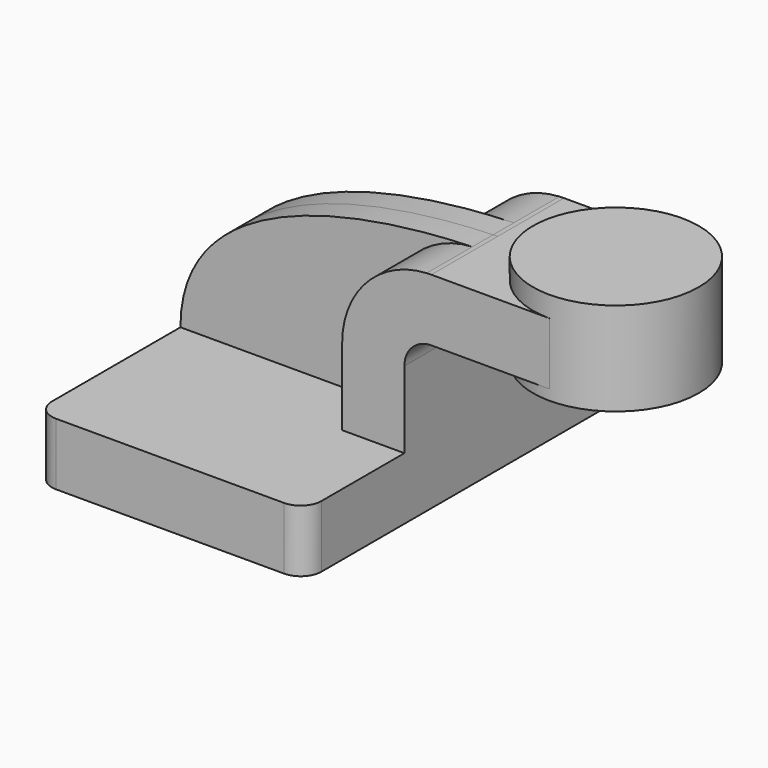
from build123d import *

# Parameters (mm, degrees)
F1_DEPTH = 63.5
F0_W     = 25.4
F0_H     = 19.05
F2_DEPTH = 25.4
F3_DEPTH = 7.9375
F4_R     = 6.35


with BuildPart() as f1:
    # F0 (on Front) → F1 (new body, symmetric)
    with BuildSketch(Plane.XZ):
        Polygon((41.275, -9.525), (41.275, 9.525), (22.225, 9.525), (-41.275, 9.525), (-41.275, -9.525), align=None)
    extrude(amount=F1_DEPTH, both=True)

    # F0 (on Front) → F2 (join, symmetric)
    with BuildSketch(Plane.XZ):
        with BuildLine():
            Line((22.225, 9.525), (41.275, 9.525))
            Line((41.275, 9.525), (41.275, 33.02))
            ThreePointArc((41.275, 33.02), (43.6928335213, 38.8571664787), (49.53, 41.275))
            Line((49.53, 41.275), (60.325, 41.275))
            Line((60.325, 41.275), (60.325, 60.325))
            Line((60.325, 60.325), (49.53, 60.325))
            add(Edge.make_bspline(
                [(48.1194647713, 60.2885425971), (48.5932006273, 60.3022707881), (49.063439273, 60.3144056478), (49.53, 60.325)],
                knots=[102.663192175, 102.663192175, 102.663192175, 102.663192175, 104.0489693606, 104.0489693606, 104.0489693606, 104.0489693606], degree=3))
            ThreePointArc((48.1194647713, 60.2885425971), (29.730029174, 51.8222387042), (22.225, 33.02))
            Line((22.225, 33.02), (22.225, 9.525))
        make_face()
        with Locations((73.025, 50.8)):
            Rectangle(F0_W, F0_H)
    extrude(amount=F2_DEPTH, both=True)

    # F0 (on Front) → F3 (join, symmetric)
    with BuildSketch(Plane.XZ):
        with BuildLine():
            Line((-41.275, 9.525), (22.225, 9.525))
            Line((22.225, 9.525), (22.225, 33.02))
            ThreePointArc((22.225, 33.02), (29.730029174, 51.8222387042), (48.1194647713, 60.2885425971))
            add(Edge.make_bspline(
                [(-41.275, 9.525), (-41.2664891716, 49.5096992436), (13.0234654023, 59.2715104706), (48.1194647713, 60.2885425971)],
                knots=[0, 0, 0, 0, 102.663192175, 102.663192175, 102.663192175, 102.663192175], degree=3))
        make_face()
    extrude(amount=F3_DEPTH, both=True)

    # F4
    f4_edges = [f1.edges().sort_by_distance(p)[0] for p in [
        (41.275, -63.5, 0),
        (-41.275, -63.5, 0),
        (41.275, 63.5, 0),
        (-41.275, 63.5, 0),
    ]]
    fillet(f4_edges, radius=F4_R)

    # F0 (on Front) → F5 (revolve)
    with BuildSketch(Plane.XZ):
        Polygon((85.725, 60.325), (85.725, 41.275), (85.725, 38.1), (111.125, 38.1), (111.125, 66.675), (85.725, 66.675), align=None)
    revolve(axis=Axis((85.725, 0, 52.3875), (0, 0, 1)))


solid = f1.part
